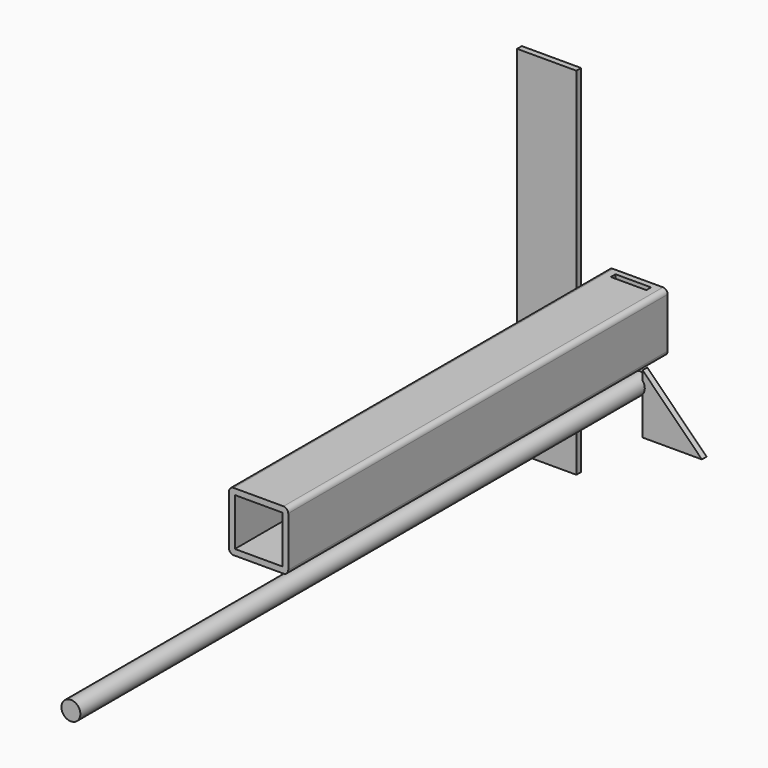
from build123d import *

# Parameters (mm, degrees)
F0_W     = 40
F0_H     = 40
F1_DEPTH = 400
F2_W     = 50
F2_H     = 300
F3_DEPTH = 5
F4_R     = 8
F5_DEPTH = 600
F7_DEPTH = 5
F8_W     = 30
F8_H     = 5
F9_DEPTH = 5


with BuildPart() as f1:
    # F0 (on Front) → F1 (new body)
    with BuildSketch(Plane.XZ):
        with BuildLine():
            ThreePointArc((0, 4), (1.171573, 1.171573), (4, 0))
            Line((4, 0), (46, 0))
            ThreePointArc((46, 0), (48.828427, 1.171573), (50, 4))
            Line((50, 4), (50, 46))
            ThreePointArc((50, 46), (48.828427, 48.828427), (46, 50))
            Line((46, 50), (4, 50))
            ThreePointArc((4, 50), (1.171573, 48.828427), (0, 46))
            Line((0, 46), (0, 4))
        make_face()
        with Locations((25, 25)):
            Rectangle(F0_W, F0_H, mode=Mode.SUBTRACT)
    extrude(amount=F1_DEPTH)

    # F8 (on face) → F9 (cut, through all)
    with BuildSketch(Plane.XY.offset(50)):
        with Locations((25, -7.5)):
            Rectangle(F8_W, F8_H)
    extrude(amount=-F9_DEPTH, mode=Mode.SUBTRACT)


with BuildPart() as f3:
    # F2 (on Front) → F3 (new body)
    with BuildSketch(Plane.XZ):
        with Locations((-48.003251, 40.367897)):
            Rectangle(F2_W, F2_H)
    extrude(amount=F3_DEPTH)


with BuildPart() as f5:
    # F4 (on Front) → F5 (new body)
    with BuildSketch(Plane.XZ):
        with Locations((26.668478, -26.66847)):
            Circle(F4_R)
    extrude(amount=F5_DEPTH)


with BuildPart() as f7:
    # F6 (on Front) → F7 (new body)
    with BuildSketch(Plane.XZ):
        Polygon((32.810374, -13.812944), (32.810374, -63.812944), (82.810374, -63.812944), align=None)
    extrude(amount=F7_DEPTH)


solid = Compound([f1.part, f3.part, f5.part, f7.part])
